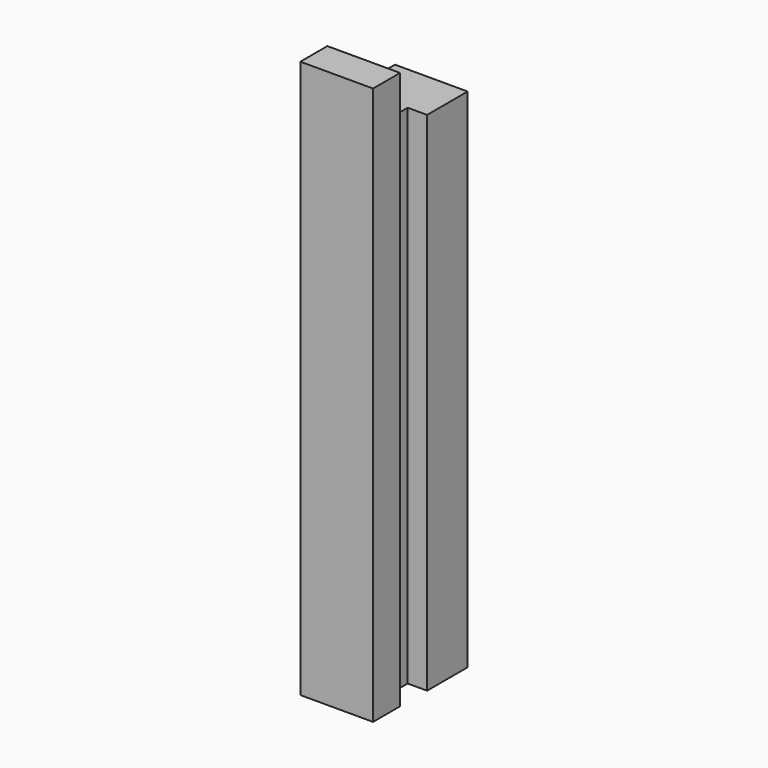
from build123d import *

# Parameters (mm, degrees)
BOX005_W     = 2
BOX005_H     = 7
BOX005_DEPTH = 30
BOX003_W     = 4.3
BOX003_H     = 2
BOX003_DEPTH = 33
BOX004_W     = 4.3
BOX004_H     = 3
BOX004_DEPTH = 30


with BuildPart() as cube005:
    # Box005 → Box005 (new body)
    with BuildSketch(Plane(origin=(-1, 1, 0), x_dir=(1, 0, 0), z_dir=(0, 0, 1))):
        with Locations((1, 3.5)):
            Rectangle(BOX005_W, BOX005_H)
    extrude(amount=BOX005_DEPTH)


with BuildPart() as cube003:
    # Box003 → Box003 (new body)
    with BuildSketch(Plane(origin=(-2.15, 1, 0), x_dir=(1, 0, 0), z_dir=(0, 0, 1))):
        with Locations((2.15, 1)):
            Rectangle(BOX003_W, BOX003_H)
    extrude(amount=BOX003_DEPTH)


with BuildPart() as slot_template:
    # Box004 → Box004 (new body)
    with BuildSketch(Plane(origin=(-2.15, 5, 0), x_dir=(1, 0, 0), z_dir=(0, 0, 1))):
        with Locations((2.15, 1.5)):
            Rectangle(BOX004_W, BOX004_H)
    extrude(amount=BOX004_DEPTH)

    # Fusion001002: union Cube005, Cube003
    add(cube005.part)
    add(cube003.part)


solid = slot_template.part
